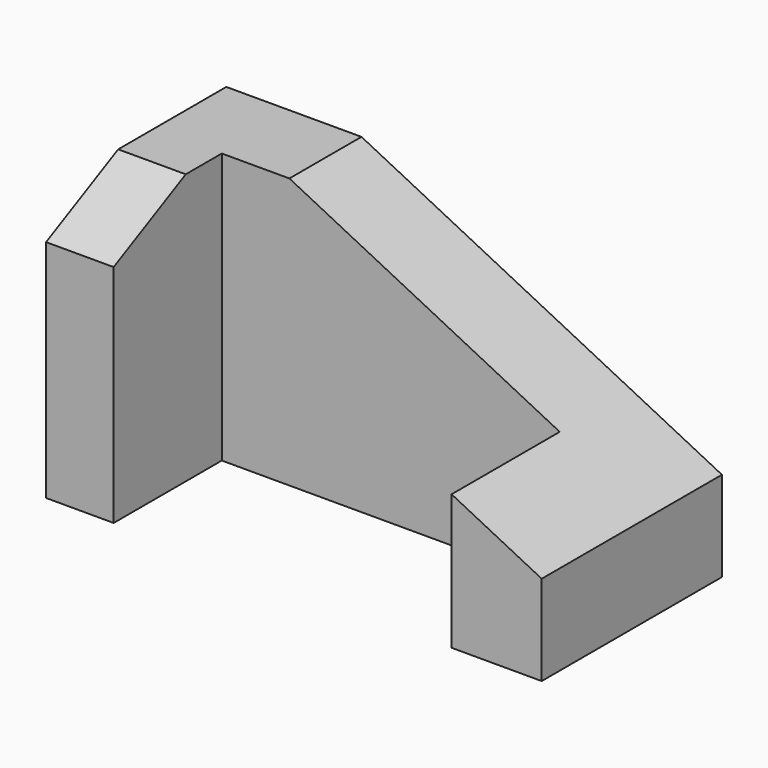
from build123d import *

# Parameters (mm, degrees)
F0_W     = 15
F0_H     = 60
F1_DEPTH = 50
F2_DEPTH = 30
F3_SIZE2 = 10
F3_SIZE  = 20


with BuildPart() as f1:
    # F0 (on Front) → F1 (new body)
    with BuildSketch(Plane.XZ):
        with Locations((7.5, 30)):
            Rectangle(F0_W, F0_H)
        Polygon((15, 60), (15, 0), (90, 0), (90, 30), (30, 60), align=None)
        Polygon((90, 30), (90, 0), (110, 0), (110, 20), align=None)
    extrude(amount=-F1_DEPTH)

    # F0 (on Front) → F2 (cut)
    with BuildSketch(Plane.XZ):
        Polygon((15, 60), (15, 0), (90, 0), (90, 30), (30, 60), align=None)
    extrude(amount=-F2_DEPTH, mode=Mode.SUBTRACT)

    # F3
    f3_edges = [f1.edges().sort_by_distance(p)[0] for p in [
        (7.5, 0, 60),
    ]]
    f3_side = f1.faces().sort_by_distance((11.785714, 29.285714, 60))[0]
    chamfer(f3_edges, length=F3_SIZE, length2=F3_SIZE2, reference=f3_side)


solid = f1.part
